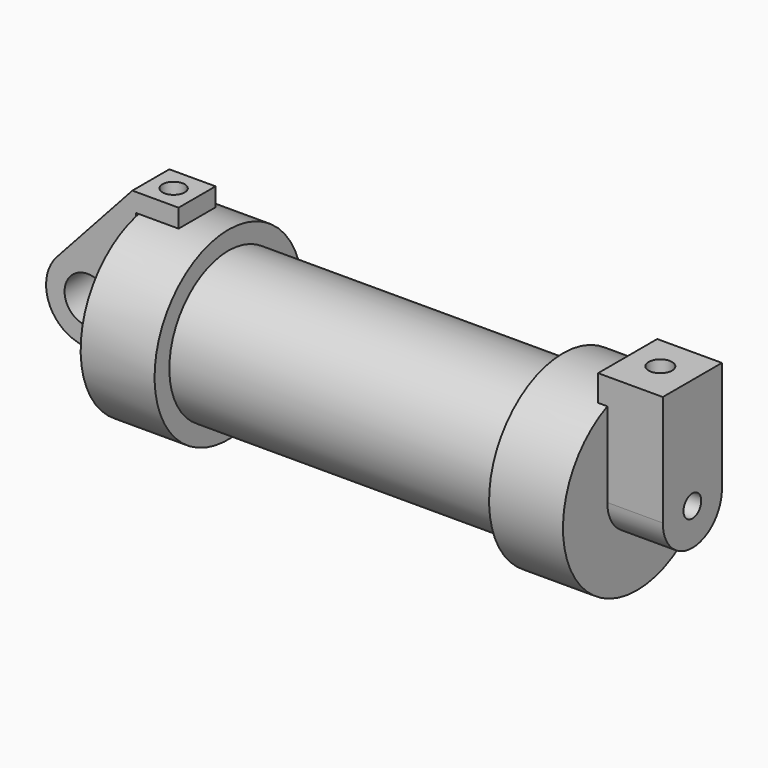
from build123d import *

# Parameters (mm, degrees)
F0_W     = 5.842
F0_H     = 12.7
F0_R     = 3.175
F2_DEPTH = 3.175
F3_R     = 1.524
F4_DEPTH = 7.62
F5_DEPTH = 1.27
F6_R     = 1.524
F7_DEPTH = 17.78
F8_R     = 1.6129
F9_DEPTH = 10.414


with BuildPart() as f1:
    # F0 (on Front) → F1 (revolve)
    with BuildSketch(Plane.XZ):
        Polygon((5.842, 12.7), (5.842, 0), (66.294, 0), (66.294, 12.7), (56.134, 12.7), (56.134, 10.16), (10.16, 10.16), (10.16, 12.7), align=None)
        with Locations((2.921, 6.35)):
            Rectangle(F0_W, F0_H)
    revolve(axis=Axis((33.147, 0, 0), (-1, 0, 0)))

    # F3 (on face) → F4 (join)
    with BuildSketch(Plane.YZ.offset(66.294)):
        with BuildLine():
            ThreePointArc((-5.08, 0), (0, -5.08), (5.08, 0))
            ThreePointArc((5.08, 0), (0, 5.08), (-5.08, 0))
        make_face()
        Circle(F3_R, mode=Mode.SUBTRACT)
        with BuildLine():
            ThreePointArc((-5.08, 0), (0, 5.08), (5.08, 0))
            Line((5.08, 0), (5.08, 11.6397422652))
            ThreePointArc((5.08, 11.6397422652), (0, 12.7), (-5.08, 11.6397422652))
            Line((-5.08, 11.6397422652), (-5.08, 0))
        make_face()
        with BuildLine():
            ThreePointArc((-5.08, 11.6397422652), (0, 12.7), (5.08, 11.6397422652))
            Line((5.08, 11.6397422652), (5.08, 15.24))
            Line((5.08, 15.24), (-5.08, 15.24))
            Line((-5.08, 15.24), (-5.08, 11.6397422652))
        make_face()
    extrude(amount=F4_DEPTH)

    # F5 (add): a face of the model
    f5_faces = [f1.faces().sort_by_distance(p)[0] for p in [
        (66.294, 0, 13.7792682875),
    ]]
    extrude(f5_faces, amount=F5_DEPTH)

    # F8 (on face) → F9 (cut)
    with BuildSketch(Plane.XY.offset(15.24)):
        with Locations((69.2411065102, 0.3372866195)):
            Circle(F8_R)
    extrude(amount=-F9_DEPTH, mode=Mode.SUBTRACT)


with BuildPart() as f2:
    # F0 (on Front) → F2 (new body, symmetric)
    with BuildSketch(Plane.XZ):
        with BuildLine():
            ThreePointArc((-8.1826630726, -5.5069827884), (-3.1957909266, -4.5493385486), (-0.9398, 0))
            ThreePointArc((-0.9398, 0), (-4.5919612295, 5.3297205562), (-10.8806298187, 3.8475430269))
            ThreePointArc((-10.8806298187, 3.8475430269), (-12.1459778134, -1.5837270034), (-8.1826630726, -5.5069827884))
        make_face()
        with Locations((-6.6548, 0)):
            Circle(F0_R, mode=Mode.SUBTRACT)
        with BuildLine():
            Line((-0.9398, 0), (0, 0))
            Line((0, 0), (0, 12.7))
            Line((0, 12.7), (5.842, 12.7))
            Line((5.842, 12.7), (5.842, 15.24))
            Line((5.842, 15.24), (-0.508, 15.24))
            Line((-0.508, 15.24), (-10.8806298187, 3.8475430269))
            ThreePointArc((-10.8806298187, 3.8475430269), (-4.5919612295, 5.3297205562), (-0.9398, 0))
        make_face()
        with BuildLine():
            Line((5.842, 0), (0, 0))
            Line((0, 0), (-0.9398, 0))
            ThreePointArc((-0.9398, 0), (-3.1957909266, -4.5493385486), (-8.1826630726, -5.5069827884))
            Line((-8.1826630726, -5.5069827884), (5.842, -9.398))
            Line((5.842, -9.398), (5.842, 0))
        make_face()
    extrude(amount=F2_DEPTH, both=True)

    # F6 (on face) → F7 (cut)
    with BuildSketch(Plane.XY.offset(15.24)):
        with Locations((2.613324672, 0.0060308498)):
            Circle(F6_R)
    extrude(amount=-F7_DEPTH, mode=Mode.SUBTRACT)


solid = Compound([f1.part, f2.part])
